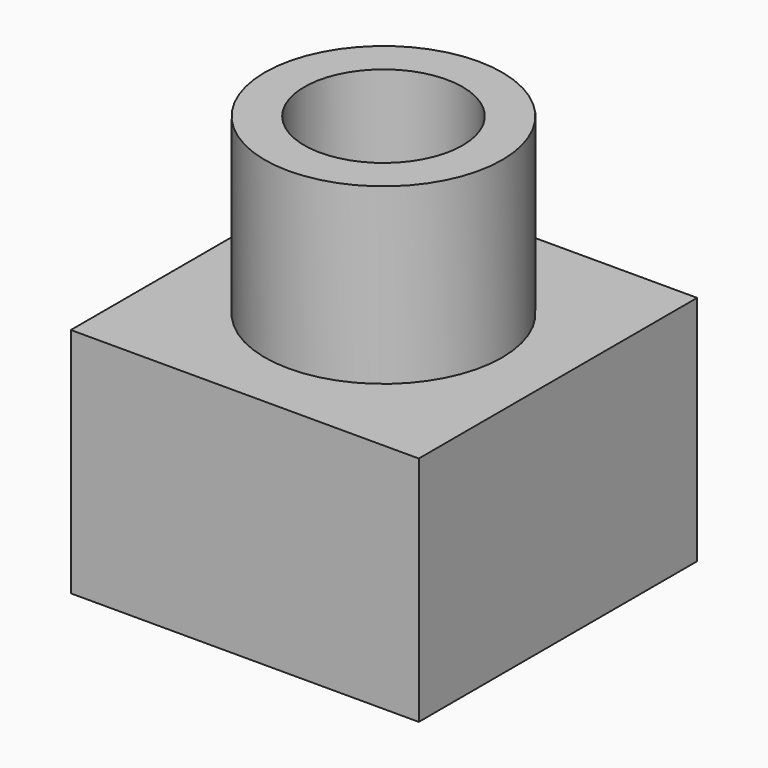
from build123d import *

# Parameters (mm, degrees)
F0_W     = 152.437769
F0_H     = 152.437777
F1_DEPTH = 101.6
F2_R     = 51.98485
F3_DEPTH = 76.2
F4_R     = 34.676264
F5_DEPTH = 177.801


with BuildPart() as f1:
    # F0 (on Top) → F1 (new body)
    with BuildSketch(Plane.XY):
        with Locations((0.220928, -8e-06)):
            Rectangle(F0_W, F0_H)
    extrude(amount=F1_DEPTH)

    # F2 (on face) → F3 (join)
    with BuildSketch(Plane.XY.offset(101.6)):
        Circle(F2_R)
    extrude(amount=F3_DEPTH)

    # F4 (on face) → F5 (cut, through all)
    with BuildSketch(Plane.XY.offset(177.8)):
        Circle(F4_R)
    extrude(amount=-F5_DEPTH, mode=Mode.SUBTRACT)


solid = f1.part
